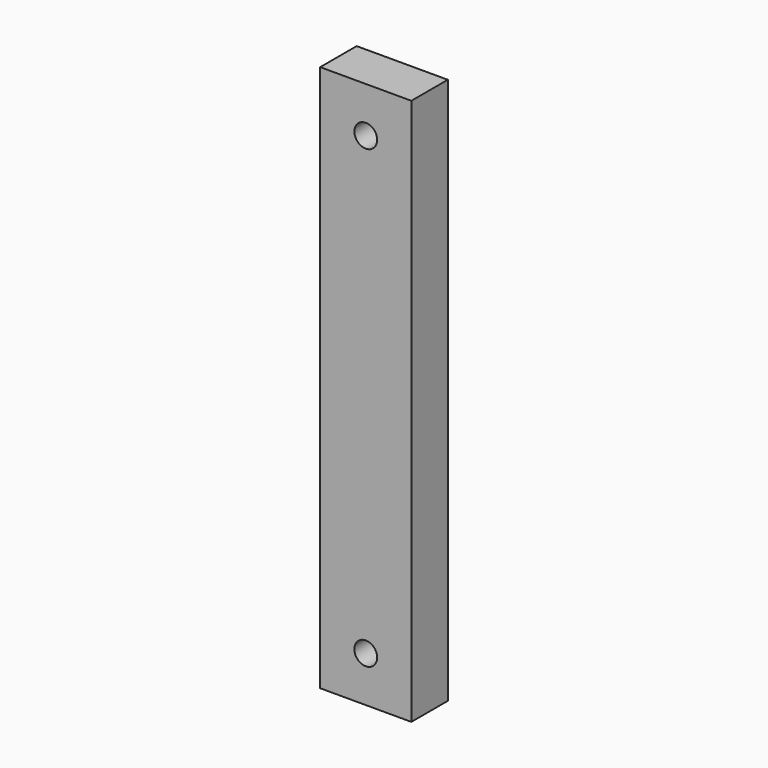
from build123d import *

# Parameters (mm, degrees)
F0_W     = 20
F0_H     = 120
F1_DEPTH = 10
F3_D     = 5


with BuildPart() as f1:
    # F0 (on Front) → F1 (new body)
    with BuildSketch(Plane.XZ):
        with Locations((10, 60)):
            Rectangle(F0_W, F0_H)
    extrude(amount=F1_DEPTH)

    # F3 (through all)
    with Locations(Plane.XZ.offset(10)):
        with Locations((10, 110), (10, 10)):
            Hole(F3_D / 2)


solid = f1.part
